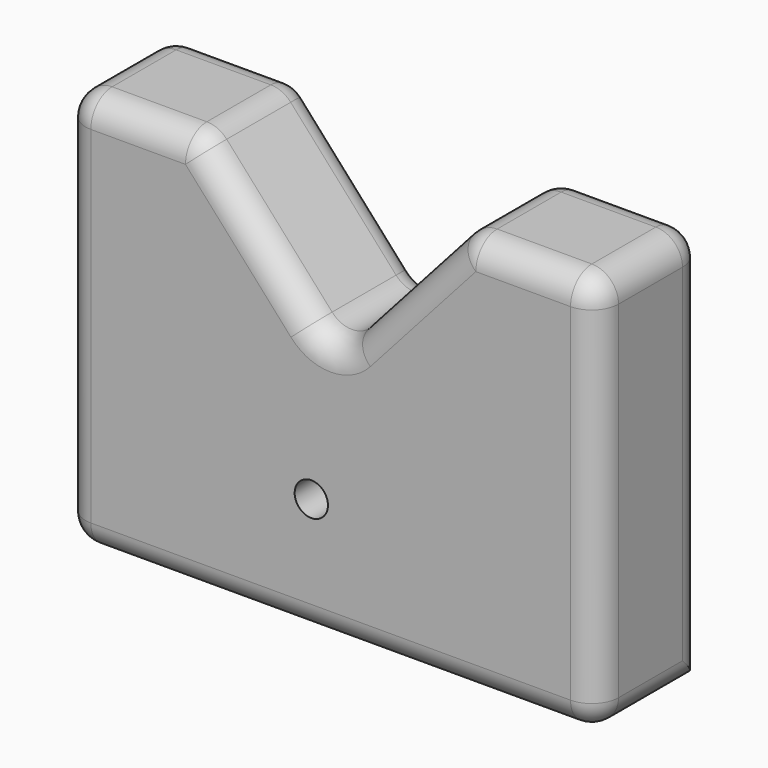
from build123d import *

# Parameters (mm, degrees)
F1_DEPTH = 25.4
F2_R     = 5.08
F4_D     = 6.35


with BuildPart() as f1:
    # F0 (on Front) → F1 (new body)
    with BuildSketch(Plane.XZ):
        Polygon((-47.108385, 8.83777), (-47.108385, -67.36223), (54.491615, -67.36223), (54.491615, 8.83777), (29.091615, 8.83777), (3.691615, -19.560294), (-21.708385, 8.83777), align=None)
    extrude(amount=F1_DEPTH)

    # F2
    f2_edges = [f1.edges().sort_by_distance(p)[0] for p in [
        (-21.708385, -12.7, 8.83777),
        (-47.108385, -12.7, 8.83777),
        (-34.408385, 0, 8.83777),
        (-34.408385, -25.4, 8.83777),
        (54.491615, -12.7, 8.83777),
        (29.091615, -12.7, 8.83777),
        (41.791615, 0, 8.83777),
        (41.791615, -25.4, 8.83777),
        (54.491615, -12.7, -67.36223),
        (54.491615, 0, -29.26223),
        (54.491615, -25.4, -29.26223),
        (-47.108385, -25.4, -29.26223),
        (3.691615, -25.4, -67.36223),
        (16.391615, -25.4, -5.361262),
        (-9.008385, -25.4, -5.361262),
        (3.691615, -12.7, -19.560294),
        (-9.008385, 0, -5.361262),
        (16.391615, 0, -5.361262),
        (-47.108385, -12.7, -67.36223),
        (-47.108385, 0, -29.26223),
    ]]
    fillet(f2_edges, radius=F2_R)

    # F4 (through all)
    with Locations(Plane.XZ.offset(25.4)):
        with Locations((0, -44.623341)):
            Hole(F4_D / 2)


solid = f1.part
